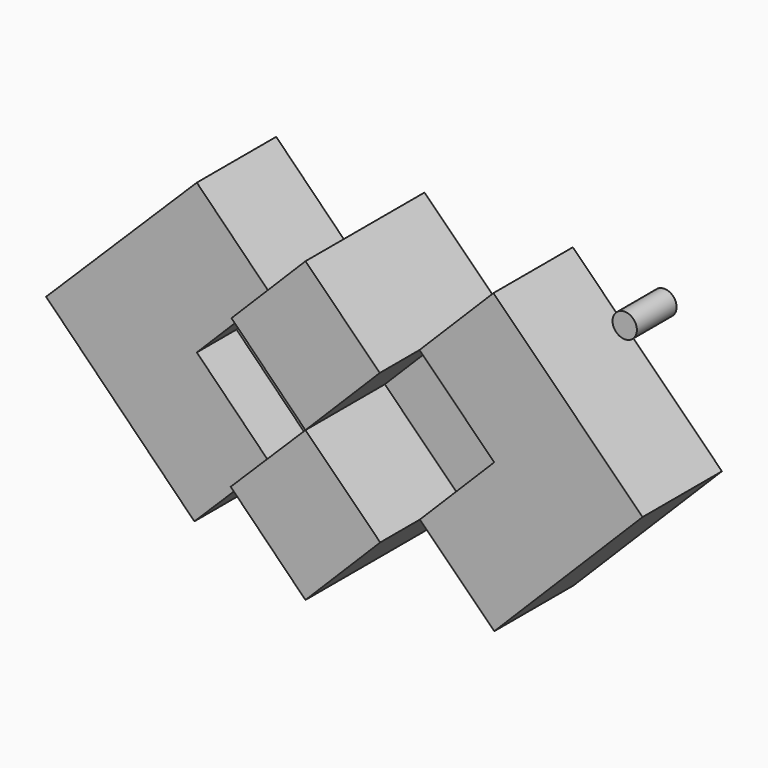
from build123d import *

# Parameters (mm, degrees)
F1_DEPTH = 25.4
F2_DEPTH = 50.8
F3_DEPTH = 76.2
F4_R     = 6.230888
F5_DEPTH = 25.4


with BuildPart() as f1:
    # F0 (on Front) → F1 (new body)
    with BuildSketch(Plane.XZ):
        Polygon((-37.861094, 38.172252), (-75.929344, 0), (-38.275399, -37.9634), (0, 0), align=None)
        Polygon((38.06825, 38.172252), (0, 0), (38.276539, -38.172252), (76.344789, 0), align=None)
    extrude(amount=F1_DEPTH)


with BuildPart() as f2:
    # F0 (on Front) → F2 (new body)
    with BuildSketch(Plane.XZ):
        Polygon((-38.275399, -37.9634), (-75.929344, 0), (-37.861094, 38.172252), (-75.929344, 76.553363), (-153.111854, 0), (-77.18251, -76.553363), align=None)
        Polygon((75.929344, 76.136783), (38.06825, 38.172252), (76.344789, 0), (38.276539, -38.172252), (76.344789, -76.136783), (152.274132, 0), align=None)
    extrude(amount=F2_DEPTH)


with BuildPart() as f3:
    # F0 (on Front) → F3 (new body)
    with BuildSketch(Plane.XZ):
        Polygon((0, 76.136783), (-37.861094, 38.172252), (0, 0), (38.06825, 38.172252), align=None)
        Polygon((0, 0), (-38.275399, -37.9634), (0, -76.553363), (38.276539, -38.172252), align=None)
    extrude(amount=F3_DEPTH)


with BuildPart() as f5:
    # F4 (on Front) → F5 (new body)
    with BuildSketch(Plane.XZ):
        with Locations((122.830011, 66.472888)):
            Circle(F4_R)
    extrude(amount=F5_DEPTH)


solid = Compound([f1.part, f2.part, f3.part, f5.part])
